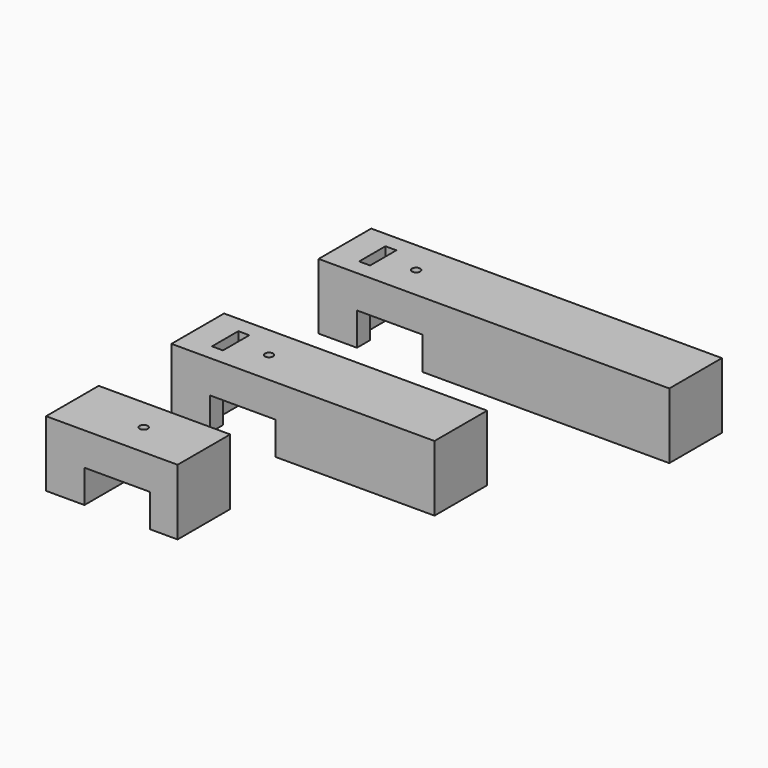
from build123d import *

# Parameters (mm, degrees)
F0_W      = 76.2
F0_H      = 76.2
F1_DEPTH  = 152.4
F2_W      = 76.2
F2_H      = 38.1
F3_DEPTH  = 76.2
F4_R      = 4.7625
F5_DEPTH  = 31.75
F6_R      = 4.7625
F7_DEPTH  = 38.101
F9_DEPTH  = 152.4
F10_W     = 12.7
F10_H     = 38.1
F11_DEPTH = 76.201
F13_DEPTH = 254
F14_W     = 12.7
F14_H     = 38.1
F15_DEPTH = 76.201


with BuildPart() as f1:
    # F0 (on Right) → F1 (new body)
    with BuildSketch(Plane.YZ):
        with Locations((38.1, 38.1)):
            Rectangle(F0_W, F0_H)
    extrude(amount=F1_DEPTH)

    # F2 (on face) → F3 (cut)
    with BuildSketch(Plane.XZ):
        with Locations((82.55, 19.05)):
            Rectangle(F2_W, F2_H)
    extrude(amount=-F3_DEPTH, mode=Mode.SUBTRACT)

    # F4 (on face) → F5 (cut)
    with BuildSketch(Plane(origin=(0, 0, 0), x_dir=(0, -1, 0), z_dir=(-1, 0, 0))):
        with Locations((-38.1, 38.1)):
            Circle(F4_R)
    extrude(amount=-F5_DEPTH, mode=Mode.SUBTRACT)

    # F6 (on face) → F7 (cut, through all)
    with BuildSketch(Plane(origin=(0, 0, 38.1), x_dir=(1, 0, 0), z_dir=(0, 0, -1))):
        with Locations((82.55, -38.1)):
            Circle(F6_R)
    extrude(amount=-F7_DEPTH, mode=Mode.SUBTRACT)


with BuildPart() as f8_1:
    # F8: copy of F1
    add(f1.part.moved(Location((0, 181.61, 0))))

    # F9 (add): a face of the model
    f9_faces = [f8_1.faces().sort_by_distance(p)[0] for p in [
        (152.4, 219.71, 38.1),
    ]]
    extrude(f9_faces, amount=F9_DEPTH)

    # F10 (on face) → F11 (cut, through all)
    with BuildSketch(Plane(origin=(0, 0, 0), x_dir=(1, 0, 0), z_dir=(0, 0, -1))):
        with Locations((38.1, -219.71)):
            Rectangle(F10_W, F10_H)
    extrude(amount=-F11_DEPTH, mode=Mode.SUBTRACT)


with BuildPart() as f12_1:
    # F12: copy of F1
    add(f1.part.moved(Location((0, 394.716, 0))))

    # F13 (add): a face of the model
    f13_faces = [f12_1.faces().sort_by_distance(p)[0] for p in [
        (152.4, 432.816, 38.1),
    ]]
    extrude(f13_faces, amount=F13_DEPTH)

    # F14 (on face) → F15 (cut, through all)
    with BuildSketch(Plane.XY.offset(76.2)):
        with Locations((38.1, 432.816)):
            Rectangle(F14_W, F14_H)
    extrude(amount=-F15_DEPTH, mode=Mode.SUBTRACT)


solid = Compound([f1.part, f8_1.part, f12_1.part])
